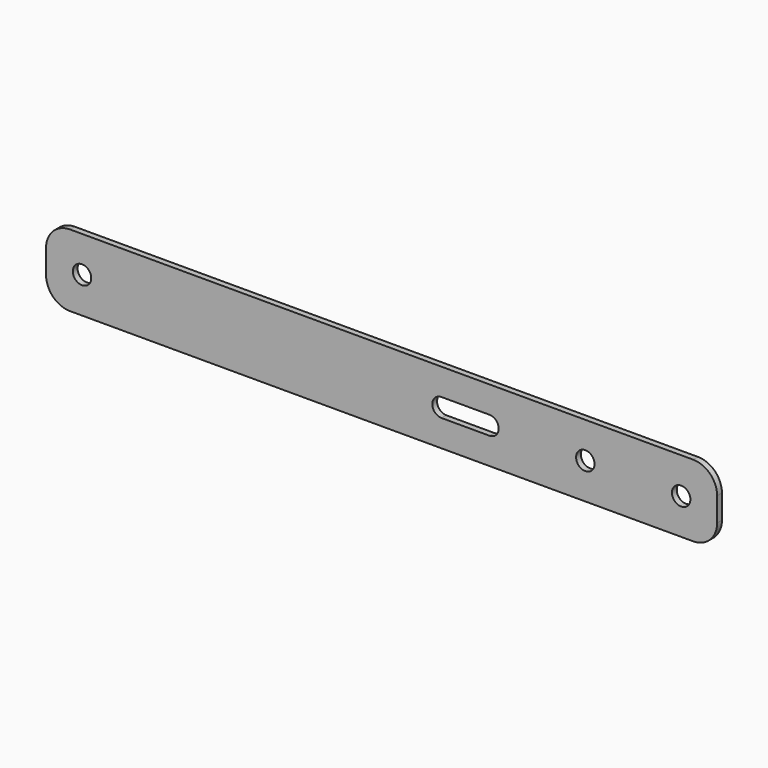
from build123d import *

# Parameters (mm, degrees)
F0_R     = 4.8895
F1_DEPTH = 3.175


with BuildPart() as f1:
    # F0 (on Front) → F1 (new body)
    with BuildSketch(Plane.XZ):
        with BuildLine():
            Line((-165.1, -19.05), (165.1, -19.05))
            ThreePointArc((165.1, -19.05), (174.080256, -15.330256), (177.8, -6.35))
            Line((177.8, -6.35), (177.8, 6.35))
            ThreePointArc((177.8, 6.35), (174.080256, 15.330256), (165.1, 19.05))
            Line((165.1, 19.05), (-165.1, 19.05))
            ThreePointArc((-165.1, 19.05), (-174.080256, 15.330256), (-177.8, 6.35))
            Line((-177.8, 6.35), (-177.8, -6.35))
            ThreePointArc((-177.8, -6.35), (-174.080256, -15.330256), (-165.1, -19.05))
        make_face()
        with Locations((-158.75, 0)):
            Circle(F0_R, mode=Mode.SUBTRACT)
        with BuildLine():
            Line((31.75, 4.8895), (57.15, 4.8895))
            ThreePointArc((57.15, 4.8895), (62.0395, 0), (57.15, -4.8895))
            Line((57.15, -4.8895), (31.75, -4.8895))
            ThreePointArc((31.75, -4.8895), (26.8605, 0), (31.75, 4.8895))
        make_face(mode=Mode.SUBTRACT)
        with Locations((107.95, 0)):
            Circle(F0_R, mode=Mode.SUBTRACT)
        with Locations((158.75, 0)):
            Circle(F0_R, mode=Mode.SUBTRACT)
    extrude(amount=F1_DEPTH)


solid = f1.part
